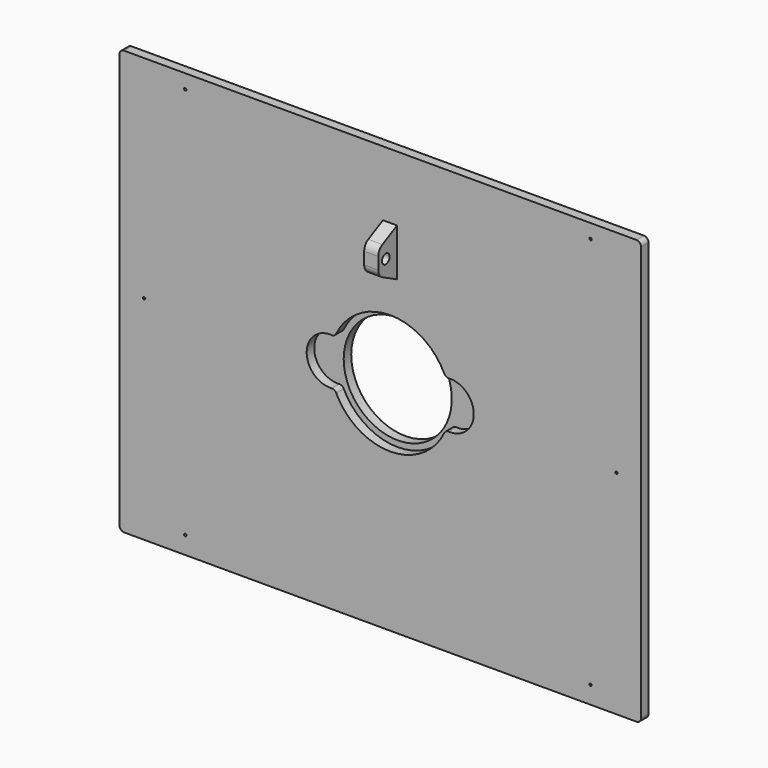
from build123d import *

# Parameters (mm, degrees)
F0_R     = 0.5
F0_W     = 5.83
F0_H     = 19.8
F1_DEPTH = 4
F2_R     = 23
F3_DEPTH = 4
F4_R     = 2.05
F4_W     = 4
F4_H     = 19.8
F5_DEPTH = 6
F6_R     = 0.5
F7_DEPTH = 25


with BuildPart() as f1:
    # F0 (on Front) → F1 (new body)
    with BuildSketch(Plane.XZ):
        with BuildLine():
            ThreePointArc((-35.976313, 88.25), (-36.562099, 89.664214), (-37.976313, 90.25))
            Line((-37.976313, 90.25), (-255.976313, 90.25))
            ThreePointArc((-255.976313, 90.25), (-257.390526, 89.664214), (-257.976313, 88.25))
            Line((-257.976313, 88.25), (-257.976313, -88.25))
            ThreePointArc((-257.976313, -88.25), (-257.390526, -89.664214), (-255.976313, -90.25))
            Line((-255.976313, -90.25), (-37.976313, -90.25))
            ThreePointArc((-37.976313, -90.25), (-36.562099, -89.664214), (-35.976313, -88.25))
            Line((-35.976313, -88.25), (-35.976313, 88.25))
        make_face()
        with Locations((-229.976313, -82.75)):
            Circle(F0_R, mode=Mode.SUBTRACT)
        with Locations((-57.476313, -82.75)):
            Circle(F0_R, mode=Mode.SUBTRACT)
        with Locations((-229.976313, 84.25)):
            Circle(F0_R, mode=Mode.SUBTRACT)
        with BuildLine():
            ThreePointArc((-167.659875, -7.530982), (-178.276313, 2.45), (-167.659875, 12.430982))
            ThreePointArc((-167.659875, 12.430982), (-166.526072, 12.701241), (-165.735478, 13.557692))
            ThreePointArc((-165.735478, 13.557692), (-142.726313, 28), (-119.717148, 13.557692))
            ThreePointArc((-119.717148, 13.557692), (-118.926554, 12.701241), (-117.792751, 12.430982))
            ThreePointArc((-117.792751, 12.430982), (-107.176313, 2.45), (-117.792751, -7.530982))
            ThreePointArc((-117.792751, -7.530982), (-118.926554, -7.801241), (-119.717148, -8.657692))
            ThreePointArc((-119.717148, -8.657692), (-142.726313, -23.1), (-165.735478, -8.657692))
            ThreePointArc((-165.735478, -8.657692), (-166.526072, -7.801241), (-167.659875, -7.530982))
        make_face(mode=Mode.SUBTRACT)
        with Locations((-142.726313, 52.45)):
            Rectangle(F0_W, F0_H, mode=Mode.SUBTRACT)
        with Locations((-57.476313, 84.25)):
            Circle(F0_R, mode=Mode.SUBTRACT)
    extrude(amount=F1_DEPTH)

    # F6 (on face) → F7 (cut)
    with BuildSketch(Plane.XZ.offset(4)):
        with Locations((-247.476313, 0.25)):
            Circle(F6_R)
        with Locations((-46.476313, 0.25)):
            Circle(F6_R)
    extrude(amount=-F7_DEPTH, mode=Mode.SUBTRACT)


with BuildPart() as f3:
    # F2 (on face) → F3 (new body)
    with BuildSketch(Plane(origin=(0, 0, 0), x_dir=(-1, 0, 0), z_dir=(0, 1, 0))):
        with BuildLine():
            ThreePointArc((67.976313, -67.3), (69.440779, -70.835534), (72.976313, -72.3))
            Line((72.976313, -72.3), (212.476313, -72.3))
            ThreePointArc((212.476313, -72.3), (216.011847, -70.835534), (217.476313, -67.3))
            Line((217.476313, -67.3), (217.476313, 72.2))
            ThreePointArc((217.476313, 72.2), (216.011847, 75.735534), (212.476313, 77.2))
            Line((212.476313, 77.2), (72.976313, 77.2))
            ThreePointArc((72.976313, 77.2), (69.440779, 75.735534), (67.976313, 72.2))
            Line((67.976313, 72.2), (67.976313, -67.3))
        make_face()
        with Locations((142.726313, 2.45)):
            Circle(F2_R, mode=Mode.SUBTRACT)
    extrude(amount=F3_DEPTH)


with BuildPart() as f5:
    # F4 (on face) → F5 (new body)
    with BuildSketch(Plane(origin=(-139.811313, 0, 0), x_dir=(0, -1, 0), z_dir=(-1, 0, 0))):
        with BuildLine():
            Line((4, 42.55), (0, 42.55))
            Line((0, 42.55), (0, 42.35))
            Line((0, 42.35), (4, 42.35))
            Line((4, 42.35), (11.817304, 46.336825))
            ThreePointArc((11.817304, 46.336825), (13.410954, 47.810815), (14, 49.900167))
            Line((14, 49.900167), (14, 54.999833))
            ThreePointArc((14, 54.999833), (13.410954, 57.089185), (11.817304, 58.563175))
            Line((11.817304, 58.563175), (4, 62.55))
            Line((4, 62.55), (0, 62.55))
            Line((0, 62.55), (0, 62.35))
            Line((0, 62.35), (4, 62.35))
            Line((4, 62.35), (4, 42.55))
        make_face()
        with Locations((10, 52.45)):
            Circle(F4_R, mode=Mode.SUBTRACT)
        with Locations((2, 52.45)):
            Rectangle(F4_W, F4_H)
    extrude(amount=F5_DEPTH)


solid = Compound([f1.part, f3.part, f5.part])
